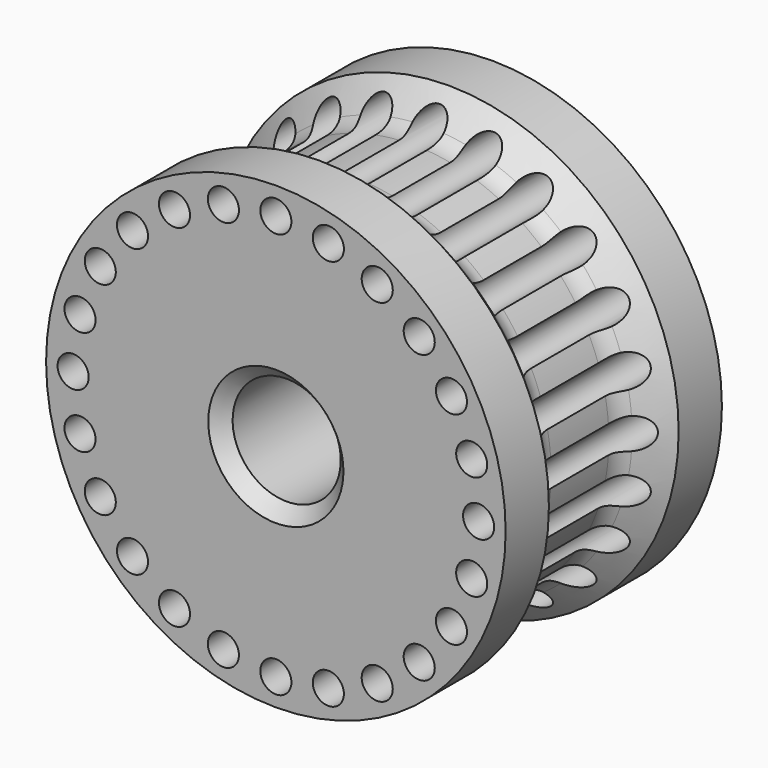
from build123d import *

# Parameters (mm, degrees)
F2_R     = 0.575
F3_DEPTH = 20
F4_SIZE  = 0.5


with BuildPart() as f1:
    # F0 (on Right) → F1 (revolve)
    with BuildSketch(Plane.YZ):
        with BuildLine():
            Line((-10, 2), (0, 2))
            Line((0, 2), (0, 8.5))
            Line((0, 8.5), (-2, 8.5))
            Line((-2, 8.5), (-2.957107, 7.542893))
            ThreePointArc((-2.957107, 7.542893), (-3.28153, 7.32612), (-3.664214, 7.25))
            Line((-3.664214, 7.25), (-6.335786, 7.25))
            ThreePointArc((-6.335786, 7.25), (-6.71847, 7.32612), (-7.042893, 7.542893))
            Line((-7.042893, 7.542893), (-8, 8.5))
            Line((-8, 8.5), (-10, 8.5))
            Line((-10, 8.5), (-10, 2))
        make_face()
    revolve(axis=Axis((0, -5, 0), (0, -1, 0)))

    # F2 (on Front) → F3 (cut)
    with BuildSketch(Plane.XZ):
        with Locations((-1.941143, -7.244444)):
            Circle(F2_R)
        with Locations((3.75, -6.495191)):
            Circle(F2_R)
        with Locations((-6.495191, -3.75)):
            Circle(F2_R)
        with Locations((-3.75, 6.495191)):
            Circle(F2_R)
        with Locations((-7.244444, -1.941143)):
            Circle(F2_R)
        with Locations((-6.495191, 3.75)):
            Circle(F2_R)
        with Locations((1.941143, 7.244444)):
            Circle(F2_R)
        with Locations((5.303301, -5.303301)):
            Circle(F2_R)
        with Locations((6.495191, 3.75)):
            Circle(F2_R)
        with Locations((-1.941143, 7.244444)):
            Circle(F2_R)
        with Locations((7.244444, -1.941143)):
            Circle(F2_R)
        with Locations((-7.5, 0)):
            Circle(F2_R)
        with Locations((-5.303301, 5.303301)):
            Circle(F2_R)
        with Locations((3.75, 6.495191)):
            Circle(F2_R)
        with Locations((-3.75, -6.495191)):
            Circle(F2_R)
        with Locations((5.303301, 5.303301)):
            Circle(F2_R)
        with Locations((1.941143, -7.244444)):
            Circle(F2_R)
        with Locations((7.244444, 1.941143)):
            Circle(F2_R)
        with Locations((-7.244444, 1.941143)):
            Circle(F2_R)
        with Locations((0, -7.5)):
            Circle(F2_R)
        with Locations((6.495191, -3.75)):
            Circle(F2_R)
        with Locations((0, 7.5)):
            Circle(F2_R)
        with Locations((7.5, 0)):
            Circle(F2_R)
        with Locations((-5.303301, -5.303301)):
            Circle(F2_R)
    extrude(amount=F3_DEPTH, mode=Mode.SUBTRACT)

    # F4
    f4_edges = [f1.edges().sort_by_distance(p)[0] for p in [
        (0, -10, -2),
        (0, 0, -2),
        (0, -5, 2),
    ]]
    chamfer(f4_edges, length=F4_SIZE)


solid = f1.part
